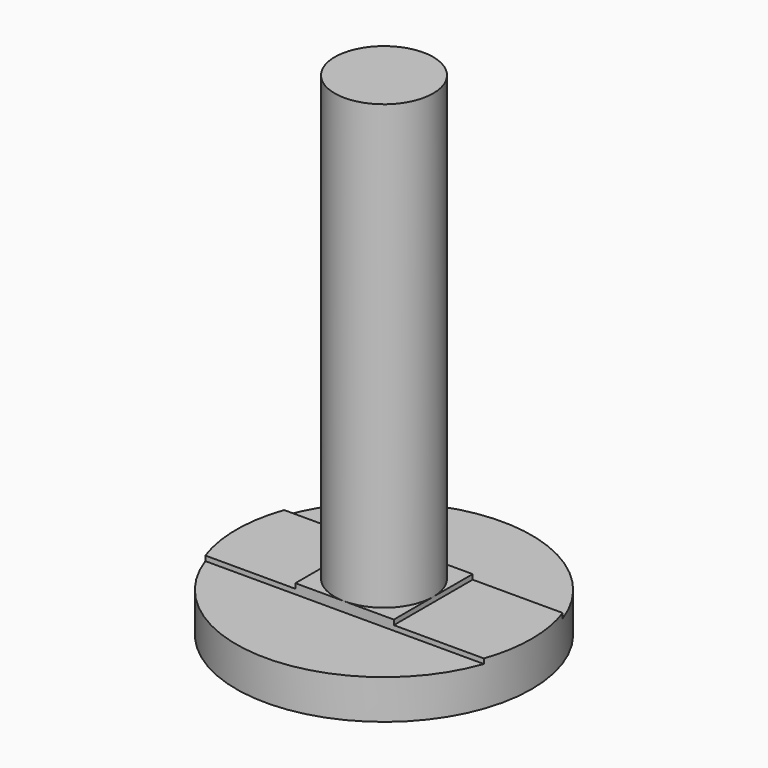
from build123d import *

# Parameters (mm, degrees)
BOX005_W          = 20
BOX005_H          = 10
BOX005_DEPTH      = 0.4
BOX007_W          = 20
BOX007_H          = 10
BOX007_DEPTH      = 0.4
BOX006_W          = 10
BOX006_H          = 20
BOX006_DEPTH      = 0.2
BOX008_W          = 10
BOX008_H          = 20
BOX008_DEPTH      = 0.2
CYLINDER001_R     = 6
CYLINDER001_DEPTH = 2
CYLINDER_R        = 2
CYLINDER_DEPTH    = 20


with BuildPart() as cube005:
    # Box005 → Box005 (new body)
    with BuildSketch(Plane(origin=(-10, 2, 1.6), x_dir=(1, 0, 0), z_dir=(0, 0, 1))):
        with Locations((10, 5)):
            Rectangle(BOX005_W, BOX005_H)
    extrude(amount=BOX005_DEPTH)


with BuildPart() as cube007:
    # Box007 → Box007 (new body)
    with BuildSketch(Plane(origin=(-10, -12, 1.6), x_dir=(1, 0, 0), z_dir=(0, 0, 1))):
        with Locations((10, 5)):
            Rectangle(BOX007_W, BOX007_H)
    extrude(amount=BOX007_DEPTH)


with BuildPart() as cube006:
    # Box006 → Box006 (new body)
    with BuildSketch(Plane(origin=(-12, -10, 1.8), x_dir=(1, 0, 0), z_dir=(0, 0, 1))):
        with Locations((5, 10)):
            Rectangle(BOX006_W, BOX006_H)
    extrude(amount=BOX006_DEPTH)


with BuildPart() as fusion001:
    # Box008 → Box008 (new body)
    with BuildSketch(Plane(origin=(2, -10, 1.8), x_dir=(1, 0, 0), z_dir=(0, 0, 1))):
        with Locations((5, 10)):
            Rectangle(BOX008_W, BOX008_H)
    extrude(amount=BOX008_DEPTH)

    # Fusion001: union Cube005, Cube007, Cube006
    add(cube005.part)
    add(cube007.part)
    add(cube006.part)


with BuildPart() as cut:
    # Cylinder001 → Cylinder001 (new body)
    with BuildSketch(Plane.XY):
        Circle(CYLINDER001_R)
    extrude(amount=CYLINDER001_DEPTH)

    # Cut: cut Fusion001
    add(fusion001.part, mode=Mode.SUBTRACT)


with BuildPart() as fusion002:
    # Cylinder → Cylinder (new body)
    with BuildSketch(Plane.XY):
        Circle(CYLINDER_R)
    extrude(amount=CYLINDER_DEPTH)

    # Fusion002: union Cut
    add(cut.part)


solid = fusion002.part
